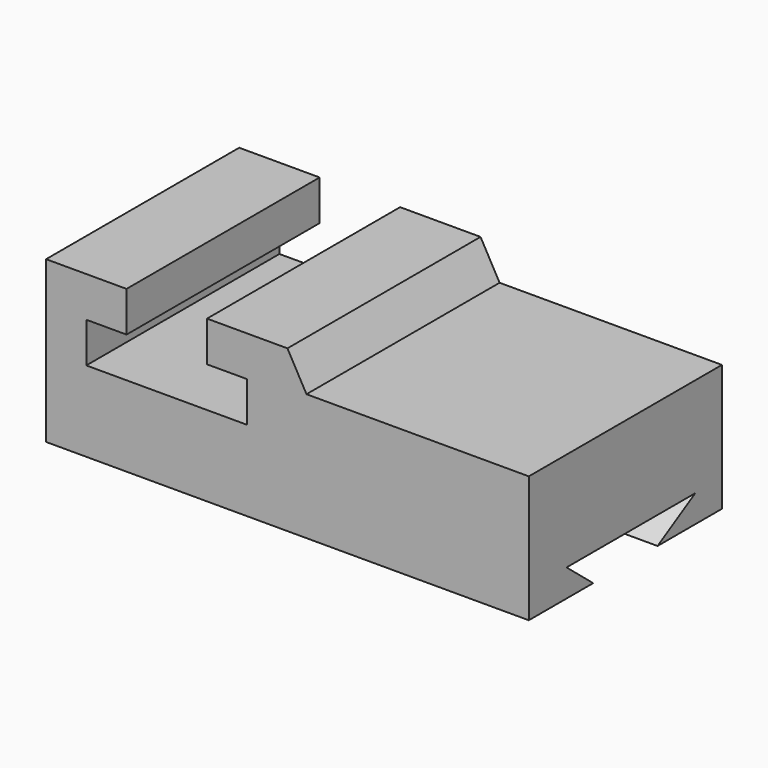
from build123d import *

# Parameters (mm, degrees)
F0_W     = 152.4
F0_H     = 50.8
F1_DEPTH = 76.2
F3_DEPTH = 76.201
F5_DEPTH = 76.201
F7_DEPTH = 152.401


with BuildPart() as f1:
    # F0 (on Front) → F1 (new body)
    with BuildSketch(Plane.XZ):
        with Locations((-45.980399, 37.487842)):
            Rectangle(F0_W, F0_H)
    extrude(amount=F1_DEPTH)

    # F2 (on face) → F3 (cut, through all)
    with BuildSketch(Plane.XZ.offset(76.2)):
        Polygon((-71.380399, 62.887842), (-96.780399, 62.887842), (-96.780399, 50.187842), (-109.480399, 50.187842), (-109.480399, 37.487842), (-58.680399, 37.487842), (-58.680399, 50.187842), (-71.380399, 50.187842), align=None)
    extrude(amount=-F3_DEPTH, mode=Mode.SUBTRACT)

    # F4 (on face) → F5 (cut, through all)
    with BuildSketch(Plane.XZ.offset(76.2)):
        Polygon((30.219601, 62.887842), (-45.980399, 62.887842), (-39.970737, 52.092843), (30.219601, 52.092843), align=None)
    extrude(amount=-F5_DEPTH, mode=Mode.SUBTRACT)

    # F6 (on face) → F7 (cut, through all)
    with BuildSketch(Plane.YZ.offset(30.219601)):
        Polygon((-61.302628, 20.722013), (-50.8, 12.087842), (-25.4, 12.087842), (-10.502628, 20.722013), align=None)
    extrude(amount=-F7_DEPTH, mode=Mode.SUBTRACT)


solid = f1.part
